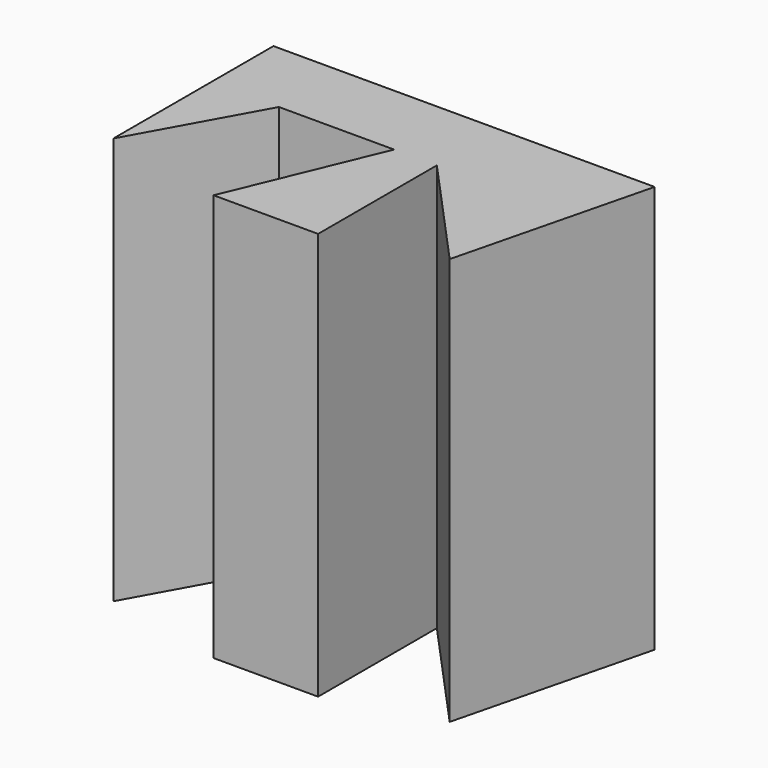
from build123d import *

# Parameters (mm, degrees)
F1_DEPTH = 50


with BuildPart() as f1:
    # F0 (on Top) → F1 (new body, symmetric)
    with BuildSketch(Plane.XY):
        Polygon((48.676394, 0), (-44.887215, 0), (-44.887215, -49.113605), (-28.273115, -19.09164), (0, -19.09164), (-15.156722, -55.526067), (10.493115, -55.526067), (10.493115, -19.09164), (36.725905, -47.947705), align=None)
    extrude(amount=F1_DEPTH, both=True)


solid = f1.part
